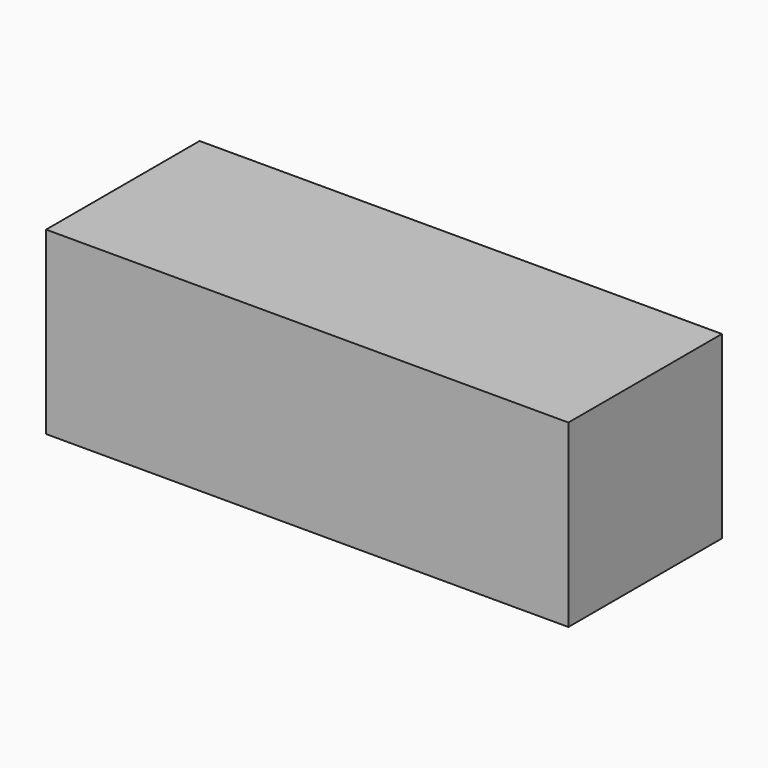
from build123d import *

# Parameters (mm, degrees)
SKETCH_W  = 98.003342
SKETCH_H  = 33.777028
PAD_DEPTH = 36
BOX_W     = 10
BOX_H     = 10
BOX_DEPTH = 10


with BuildPart() as body:
    # Sketch → Pad (new body)
    with BuildSketch(Plane.XZ):
        Rectangle(SKETCH_W, SKETCH_H)
    extrude(amount=PAD_DEPTH)


with BuildPart() as cube:
    # Box → Box (new body)
    with BuildSketch(Plane.XY):
        with Locations((5, 5)):
            Rectangle(BOX_W, BOX_H)
    extrude(amount=BOX_DEPTH)


solid = Compound([body.part, cube.part])
